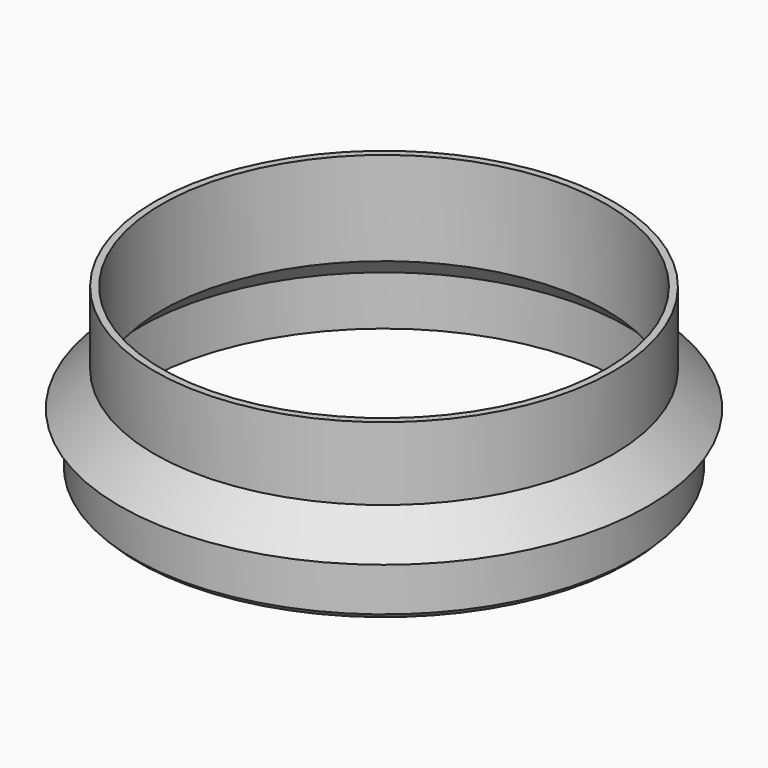
from build123d import *

# Parameters (mm, degrees)
F2_SIZE = 1.1


with BuildPart() as f1:
    # F0 (on Front) → F1 (revolve)
    with BuildSketch(Plane.XZ):
        Polygon((49.1, 20), (47.6, 20), (47.6, 0), (49.1, 0), (49.1, 4.4), align=None)
        Polygon((56.5, -3), (53.5, 0), (53.5, -3), align=None)
        Polygon((49.1, 0), (47.6, 0), (52, -4.4), (52, 0), (53.5, 0), (49.1, 4.4), align=None)
        Polygon((52, 0), (52, -4.4), (52, -15), (53.5, -15), (53.5, -3), (53.5, 0), align=None)
    revolve(axis=Axis((0, 0, -0.175409), (0, 0, -1)))

    # F2
    f2_edges = [f1.edges().sort_by_distance(p)[0] for p in [
        (-53.5, 0, -15),
    ]]
    chamfer(f2_edges, length=F2_SIZE)


solid = f1.part
